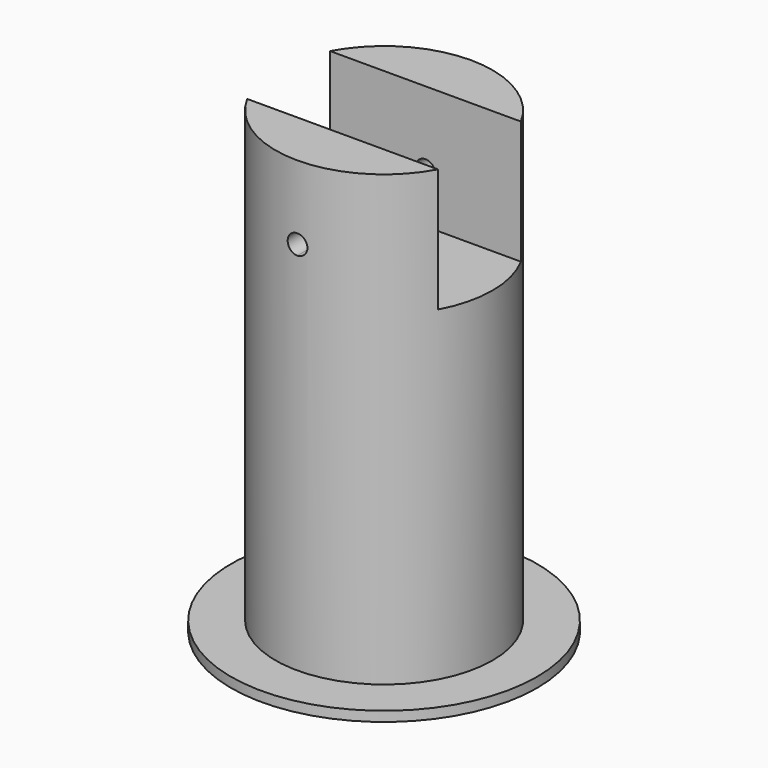
from build123d import *

# Parameters (mm, degrees)
F0_R          = 31
F1_DEPTH      = 2
F2_R          = 22
F3_DEPTH      = 91
F4_W          = 67.803
F4_H          = 21
F5_DEPTH      = 25
F7_DEPTH      = 20.501
F7_DEPTH_BACK = 43.7
F8_R          = 17
F9_DEPTH      = 63
F10_R         = 31
F11_DEPTH     = 2


with BuildPart() as f1:
    # F0 (on Top) → F1 (new body)
    with BuildSketch(Plane.XY):
        Circle(F0_R)
    extrude(amount=F1_DEPTH)

    # F2 (on face) → F3 (join)
    with BuildSketch(Plane.XY.offset(2)):
        Circle(F2_R)
    extrude(amount=F3_DEPTH)

    # F4 (on face) → F5 (cut)
    with BuildSketch(Plane.XY.offset(93)):
        Rectangle(F4_W, F4_H)
    extrude(amount=-F5_DEPTH, mode=Mode.SUBTRACT)

    # F6 (on face) → F7 (cut, two sides)
    with BuildSketch(Plane.XZ.offset(-10.5)) as f7_sk:
        with BuildLine():
            ThreePointArc((0, 80), (-2, 78), (0, 76))
            Line((0, 76), (0, 78))
            Line((0, 78), (0, 80))
        make_face()
        with BuildLine():
            Line((0, 78), (0, 76))
            ThreePointArc((0, 76), (1.4142135624, 76.5857864376), (2, 78))
            ThreePointArc((2, 78), (1.4142135624, 79.4142135624), (0, 80))
            Line((0, 80), (0, 78))
        make_face()
    extrude(amount=-F7_DEPTH, mode=Mode.SUBTRACT)
    extrude(f7_sk.sketch, amount=F7_DEPTH_BACK, mode=Mode.SUBTRACT)

    # F8 (on face) → F9 (cut)
    with BuildSketch(Plane(origin=(0, 0, 0), x_dir=(1, 0, 0), z_dir=(0, 0, -1))):
        Circle(F8_R)
    extrude(amount=-F9_DEPTH, mode=Mode.SUBTRACT)

    # F10 (on face) → F11 (join)
    with BuildSketch(Plane(origin=(0, 0, 0), x_dir=(1, 0, 0), z_dir=(0, 0, -1))):
        Circle(F10_R)
    extrude(amount=-F11_DEPTH)


solid = f1.part
